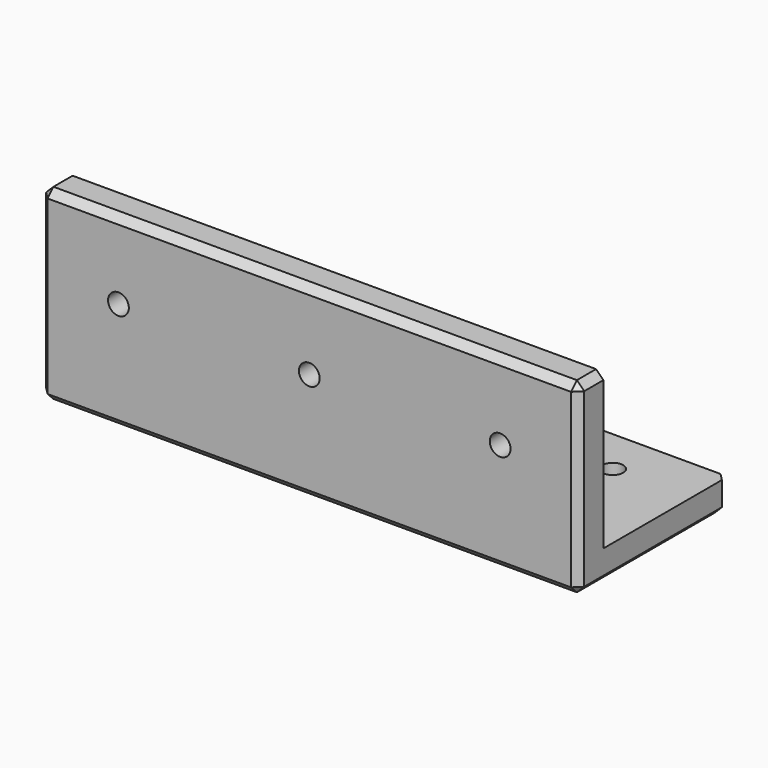
from build123d import *

# Parameters (mm, degrees)
F0_W     = 110.066666
F0_H     = 31.8
F0_R     = 2.125
F1_DEPTH = 6.4
F2_W     = 110.066666
F2_H     = 38.2
F2_R     = 2.125
F3_DEPTH = 6.4
F4_SIZE  = 1.5


with BuildPart() as f1:
    # F0 (on Top) → F1 (new body)
    with BuildSketch(Plane.XY):
        Rectangle(F0_W, F0_H)
        with Locations((-39.033333, 6.5)):
            Circle(F0_R, mode=Mode.SUBTRACT)
        with Locations((0, 6.5)):
            Circle(F0_R, mode=Mode.SUBTRACT)
        with Locations((39.033333, 6.5)):
            Circle(F0_R, mode=Mode.SUBTRACT)
    extrude(amount=F1_DEPTH)

    # F2 (on face) → F3 (join)
    with BuildSketch(Plane.XZ.offset(15.9)):
        with Locations((0, 19.1)):
            Rectangle(F2_W, F2_H)
        with Locations((-39.033333, 22.4)):
            Circle(F2_R, mode=Mode.SUBTRACT)
        with Locations((0, 22.4)):
            Circle(F2_R, mode=Mode.SUBTRACT)
        with Locations((39.033333, 22.4)):
            Circle(F2_R, mode=Mode.SUBTRACT)
    extrude(amount=F3_DEPTH)

    # F4
    f4_edges = [f1.edges().sort_by_distance(p)[0] for p in [
        (0, -22.3, 38.2),
        (0, -22.3, 0),
        (0, 15.9, 0),
        (55.033333, -3.2, 0),
        (55.033333, 15.9, 3.2),
        (-55.033333, 15.9, 3.2),
        (-55.033333, -3.2, 0),
        (-55.033333, -22.3, 19.1),
        (55.033333, -22.3, 19.1),
        (-55.033333, -19.1, 38.2),
        (55.033333, -19.1, 38.2),
    ]]
    chamfer(f4_edges, length=F4_SIZE)


solid = f1.part
